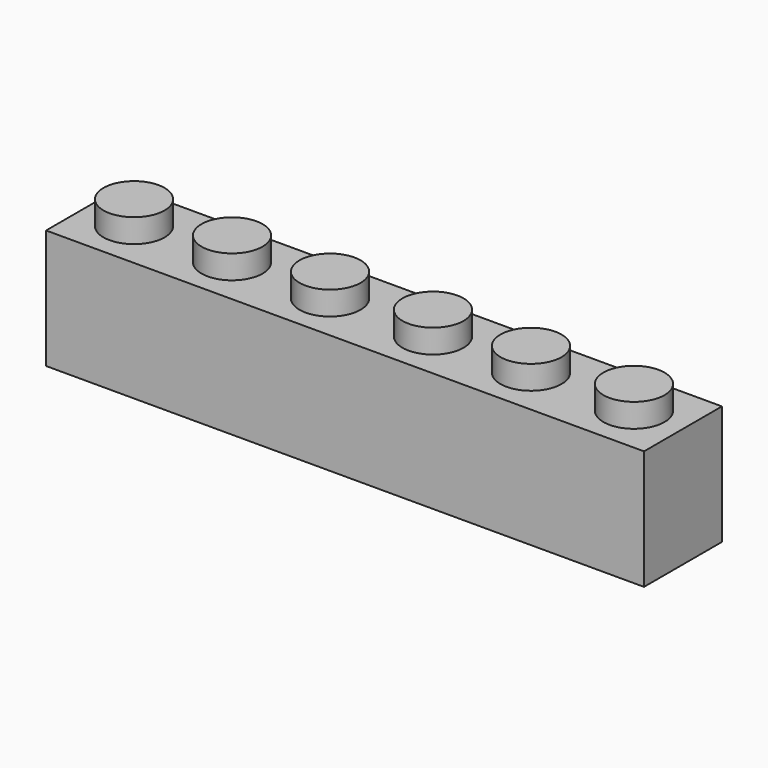
from build123d import *

# Parameters (mm, degrees)
F0_W     = 47.7266
F0_H     = 7.7724
F1_DEPTH = 9.525
F3_R     = 2.4384
F4_DEPTH = 1.8923
F2_W     = 44.7802
F2_H     = 4.953
F2_R     = 1.47955
F5_DEPTH = 8.128


with BuildPart() as f1:
    # F0 (on Top) → F1 (new body)
    with BuildSketch(Plane.XY):
        Rectangle(F0_W, F0_H)
    extrude(amount=F1_DEPTH)

    # F3 (on face) → F4 (join)
    with BuildSketch(Plane.XY.offset(9.525)):
        with Locations((-19.9517, 0)):
            Circle(F3_R)
        with Locations((-12.1285, 0)):
            Circle(F3_R)
        with Locations((-4.3053, 0)):
            Circle(F3_R)
        with Locations((3.9116, 0)):
            Circle(F3_R)
        with Locations((11.7348, 0)):
            Circle(F3_R)
        with Locations((19.9517, 0)):
            Circle(F3_R)
    extrude(amount=F4_DEPTH)

    # F2 (on face) → F5 (cut)
    with BuildSketch(Plane(origin=(0, 0, 0), x_dir=(1, 0, 0), z_dir=(0, 0, -1))):
        Rectangle(F2_W, F2_H)
        with Locations((-16.2306, 0)):
            Circle(F2_R, mode=Mode.SUBTRACT)
        with Locations((-8.1153, 0)):
            Circle(F2_R, mode=Mode.SUBTRACT)
        Circle(F2_R, mode=Mode.SUBTRACT)
        with Locations((8.1153, 0)):
            Circle(F2_R, mode=Mode.SUBTRACT)
        with Locations((16.2306, 0)):
            Circle(F2_R, mode=Mode.SUBTRACT)
    extrude(amount=-F5_DEPTH, mode=Mode.SUBTRACT)


solid = f1.part
